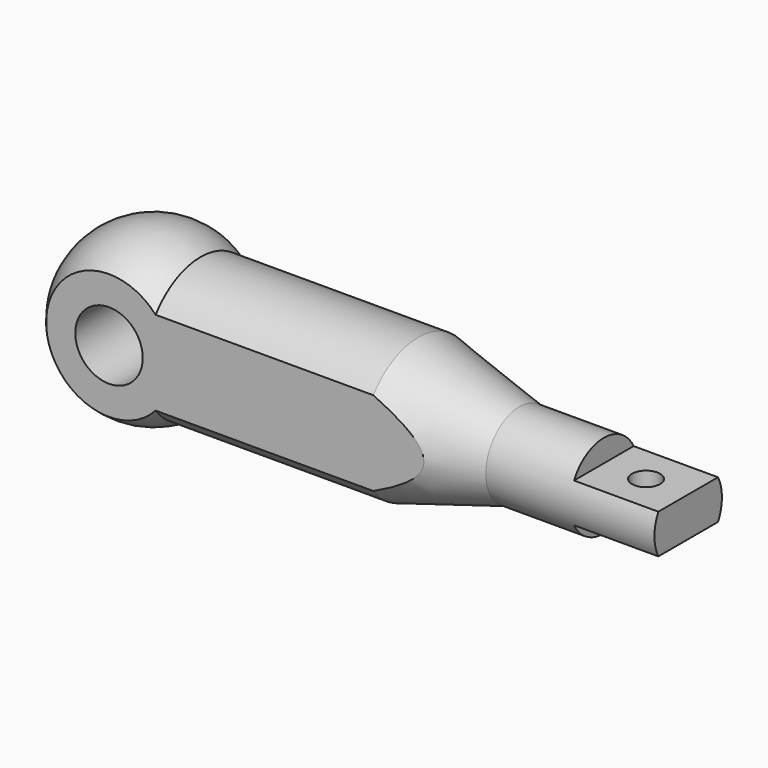
from build123d import *

# Parameters (mm, degrees)
F2_W          = 15
F2_H          = 4
F3_DEPTH      = 15.001
F3_DEPTH_BACK = 15.001
F5_DEPTH      = 110.001
F6_R          = 6
F7_DEPTH      = 20.001
F8_R          = 2.5
F9_DEPTH      = 18.501


with BuildPart() as f1:
    # F0 (on Front) → F1 (revolve)
    with BuildSketch(Plane.XZ):
        with BuildLine():
            Line((47, 12.5), (8.2915619759, 12.5))
            ThreePointArc((8.2915619759, 12.5), (-7.0931858273, 13.2169101843), (-15, 0))
            Line((-15, 0), (95, 0))
            Line((95, 0), (95, 7.5))
            Line((95, 7.5), (65, 7.5))
            Line((65, 7.5), (47, 12.5))
        make_face()
    revolve(axis=Axis((62.2206182014, 0, 0), (1, 0, 0)))

    # F2 (on Front) → F3 (cut, two sides)
    with BuildSketch(Plane.XZ) as f3_sk:
        with Locations((87.5, 5.5)):
            Rectangle(F2_W, F2_H)
        with Locations((87.5, -5.5)):
            Rectangle(F2_W, F2_H)
    extrude(amount=-F3_DEPTH, mode=Mode.SUBTRACT)
    extrude(f3_sk.sketch, amount=F3_DEPTH_BACK, mode=Mode.SUBTRACT)

    # F4 (on face) → F5 (cut, through all)
    with BuildSketch(Plane.YZ.offset(95)):
        with BuildLine():
            Line((-10, -11.1803398875), (-10, 11.1803398875))
            ThreePointArc((-10, 11.1803398875), (-15, 0), (-10, -11.1803398875))
        make_face()
        with BuildLine():
            ThreePointArc((10, -11.1803398875), (15, 0), (10, 11.1803398875))
            Line((10, 11.1803398875), (10, -11.1803398875))
        make_face()
    extrude(amount=-F5_DEPTH, mode=Mode.SUBTRACT)

    # F6 (on face) → F7 (cut, through all)
    with BuildSketch(Plane.XZ.offset(10)):
        Circle(F6_R)
    extrude(amount=-F7_DEPTH, mode=Mode.SUBTRACT)

    # F8 (on face) → F9 (cut, through all)
    with BuildSketch(Plane.XY.offset(3.5)):
        with Locations((87.5, 0)):
            Circle(F8_R)
    extrude(amount=-F9_DEPTH, mode=Mode.SUBTRACT)


solid = f1.part
